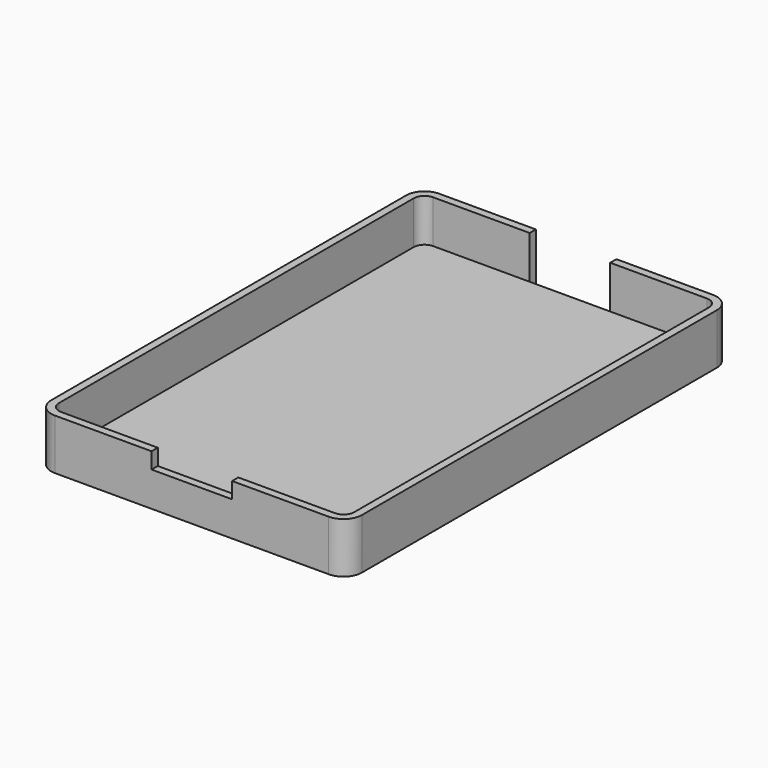
from build123d import *

# Parameters (mm, degrees)
F0_W     = 55
F0_H     = 86.6
F1_DEPTH = 8
F2_R     = 2
F3_T     = 1.44
F4_W     = 15
F4_H     = 3
F5_DEPTH = 48.1
F6_W     = 15
F6_H     = 1.44
F7_DEPTH = 25


with BuildPart() as f1:
    # F0 (on Top) → F1 (new body)
    with BuildSketch(Plane.XY):
        Rectangle(F0_W, F0_H)
    extrude(amount=F1_DEPTH)

    # F2
    f2_edges = [f1.edges().sort_by_distance(p)[0] for p in [
        (-27.5, -43.3, 4),
        (27.5, -43.3, 4),
        (27.5, 43.3, 4),
        (-27.5, 43.3, 4),
    ]]
    fillet(f2_edges, radius=F2_R)

    # F3
    f3_openings = [f1.faces().sort_by_distance(p)[0] for p in [
        (0, 0, 8),
    ]]
    offset(amount=F3_T, openings=f3_openings, kind=Kind.INTERSECTION)

    # F4 (on Front) → F5 (cut, symmetric)
    with BuildSketch(Plane.XZ):
        with Locations((0, 6.5)):
            Rectangle(F4_W, F4_H)
    extrude(amount=F5_DEPTH, both=True, mode=Mode.SUBTRACT)

    # F6 (on face) → F7 (cut)
    with BuildSketch(Plane(origin=(0, 0, -1.44), x_dir=(1, 0, 0), z_dir=(0, 0, -1))):
        with Locations((0, -44.02)):
            Rectangle(F6_W, F6_H)
    extrude(amount=-F7_DEPTH, mode=Mode.SUBTRACT)


solid = f1.part
